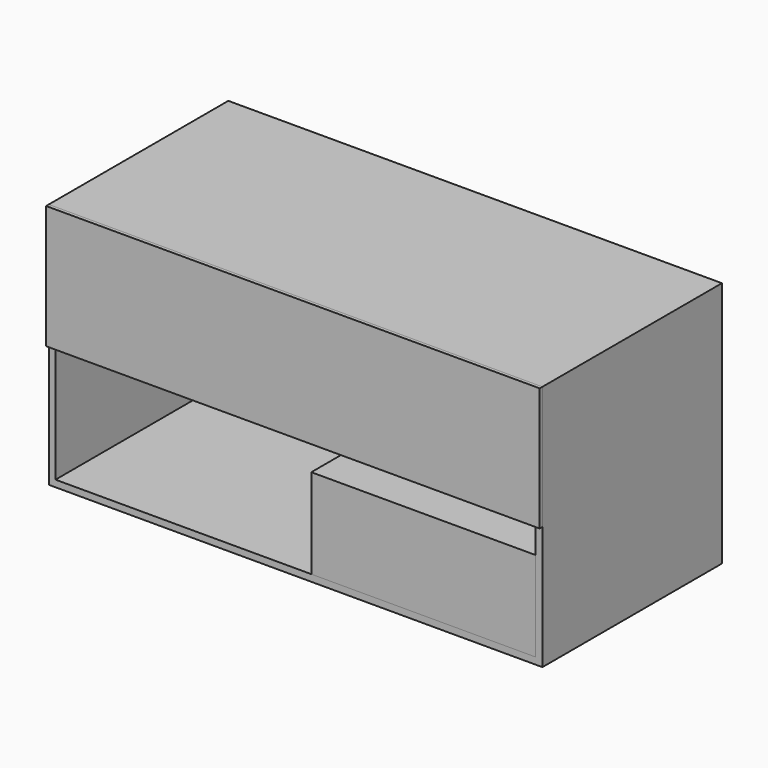
from build123d import *

# Parameters (mm, degrees)
F0_W     = 440
F0_H     = 220
F0_W_2   = 427.999994
F0_H_2   = 207.999994
F1_DEPTH = 100
F2_W     = 427.999994
F2_H     = 103.999997
F3_DEPTH = 3
F4_W     = 55
F4_H     = 140
F5_DEPTH = 80
F6_W     = 200
F6_H     = 40
F7_DEPTH = 35


with BuildPart() as f1:
    # F0 (on Front) → F1 (new body, symmetric)
    with BuildSketch(Plane.XZ):
        with Locations((16.864836, -32.39839)):
            Rectangle(F0_W, F0_H)
        with Locations((16.864836, -32.39839)):
            Rectangle(F0_W_2, F0_H_2, mode=Mode.SUBTRACT)
    extrude(amount=F1_DEPTH, both=True)


with BuildPart() as f3:
    # F2 (on face) → F3 (new body)
    with BuildSketch(Plane.XZ.offset(100)):
        Polygon((236.864836, 77.60161), (-203.135164, 77.60161), (-203.135164, -32.39839), (-197.135161, -32.39839), (-197.135161, 71.601607), (230.864833, 71.601607), (230.864833, -32.39839), (236.864836, -32.39839), align=None)
        with Locations((16.864836, 19.601609)):
            Rectangle(F2_W, F2_H)
    extrude(amount=F3_DEPTH)


with BuildPart() as f5:
    # F4 (on face) → F5 (new body)
    with BuildSketch(Plane.XY.offset(-136.398387)):
        with Locations((203.364833, 30)):
            Rectangle(F4_W, F4_H)
        Polygon((30.864833, -100), (230.864833, -100), (230.864833, -40), (175.864833, -40), (30.864833, -40), align=None)
    extrude(amount=F5_DEPTH)


with BuildPart() as f7:
    # F6 (on face) → F7 (new body)
    with BuildSketch(Plane(origin=(230.864833, 0, 0), x_dir=(0, -1, 0), z_dir=(-1, 0, 0))):
        with Locations((0, 51.601607)):
            Rectangle(F6_W, F6_H)
    extrude(amount=F7_DEPTH)


solid = Compound([f1.part, f3.part, f5.part, f7.part])
